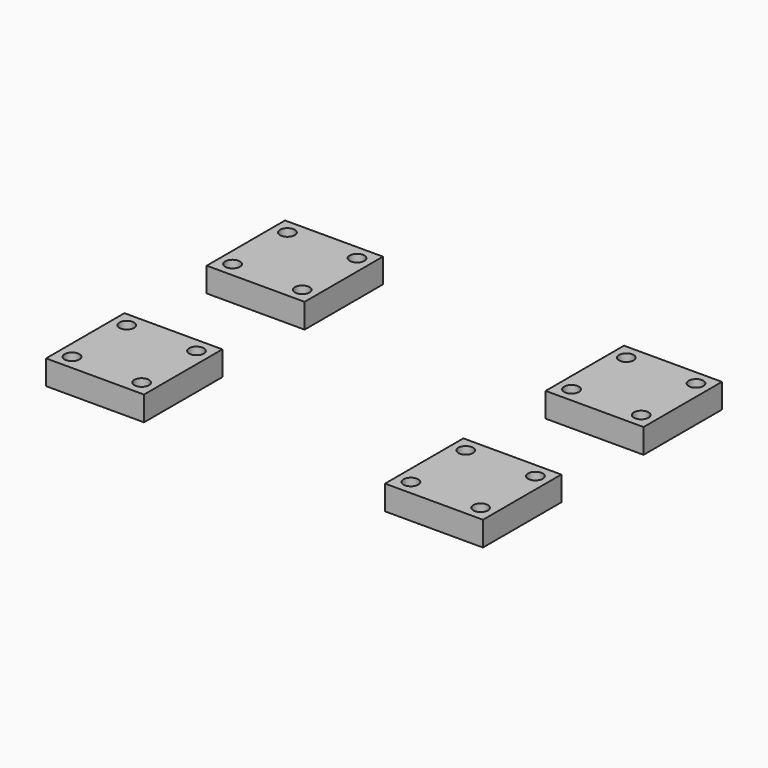
from build123d import *

# Parameters (mm, degrees)
F0_W     = 20
F0_H     = 20
F0_R     = 1.5
F1_DEPTH = 5
F2_DEPTH = 5
F3_DEPTH = 5


with BuildPart() as f1:
    # F0 (on Top) → F1 (new body)
    with BuildSketch(Plane.XY):
        with Locations((0, 41.003063)):
            Rectangle(F0_W, F0_H)
        with Locations((-7.115238, 34.008425)):
            Circle(F0_R, mode=Mode.SUBTRACT)
        with Locations((7.115238, 34.008425)):
            Circle(F0_R, mode=Mode.SUBTRACT)
        with Locations((-7.115238, 47.997702)):
            Circle(F0_R, mode=Mode.SUBTRACT)
        with Locations((7.115238, 47.997702)):
            Circle(F0_R, mode=Mode.SUBTRACT)
    extrude(amount=F1_DEPTH)


with BuildPart() as f2:
    # F0 (on Top) → F2 (new body)
    with BuildSketch(Plane.XY):
        Rectangle(F0_W, F0_H)
        with Locations((-7.115238, -6.994639)):
            Circle(F0_R, mode=Mode.SUBTRACT)
        with Locations((7.115238, -6.994639)):
            Circle(F0_R, mode=Mode.SUBTRACT)
        with Locations((-7.115238, 6.994639)):
            Circle(F0_R, mode=Mode.SUBTRACT)
        with Locations((7.115238, 6.994639)):
            Circle(F0_R, mode=Mode.SUBTRACT)
    extrude(amount=F2_DEPTH)


with BuildPart() as f3:
    # F0 (on Top) → F3 (new body)
    with BuildSketch(Plane.XY):
        with Locations((-69.222823, 41.003063)):
            Rectangle(F0_W, F0_H)
        with Locations((-76.338061, 34.008425)):
            Circle(F0_R, mode=Mode.SUBTRACT)
        with Locations((-62.107585, 34.008425)):
            Circle(F0_R, mode=Mode.SUBTRACT)
        with Locations((-76.338061, 47.997702)):
            Circle(F0_R, mode=Mode.SUBTRACT)
        with Locations((-62.107585, 47.997702)):
            Circle(F0_R, mode=Mode.SUBTRACT)
        with Locations((-69.222823, 0)):
            Rectangle(F0_W, F0_H)
        with Locations((-76.338061, -6.994639)):
            Circle(F0_R, mode=Mode.SUBTRACT)
        with Locations((-62.107585, -6.994639)):
            Circle(F0_R, mode=Mode.SUBTRACT)
        with Locations((-76.338061, 6.994639)):
            Circle(F0_R, mode=Mode.SUBTRACT)
        with Locations((-62.107585, 6.994639)):
            Circle(F0_R, mode=Mode.SUBTRACT)
    extrude(amount=F3_DEPTH)


solid = Compound([f1.part, f2.part, f3.part])
